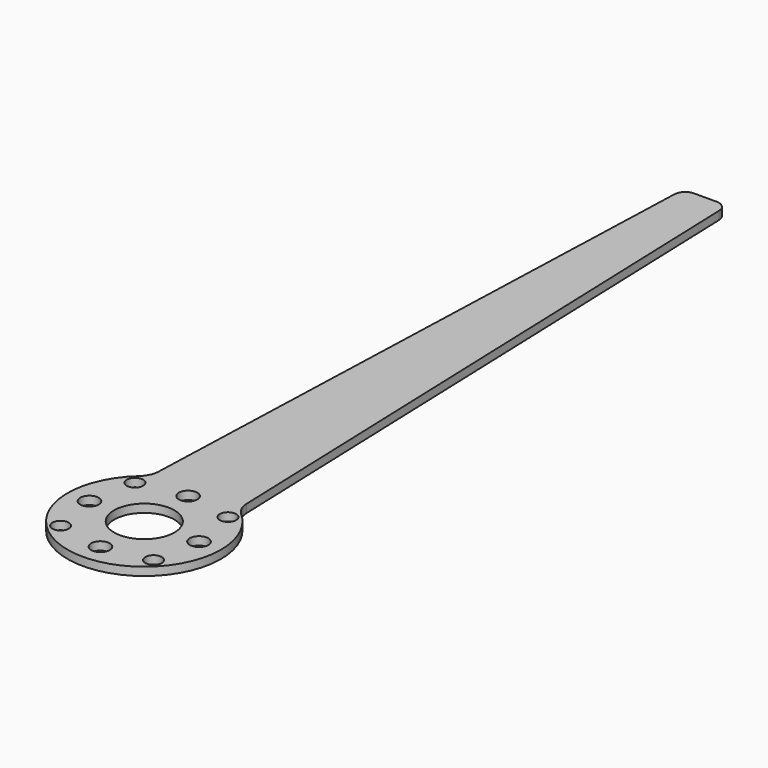
from build123d import *

# Parameters (mm, degrees)
F0_R     = 17.4625
F1_DEPTH = 4.7625
F2_D     = 10.71626
F3_R     = 6.35
F5_D     = 9.525


with BuildPart() as f1:
    # F0 (on Top) → F1 (new body)
    with BuildSketch(Plane.XY):
        with BuildLine():
            ThreePointArc((-25.4, 42.161447), (-26.591422, 37.216961), (-29.627334, 33.136438))
            ThreePointArc((-29.627334, 33.136438), (0, -44.45), (29.627334, 33.136438))
            ThreePointArc((29.627334, 33.136438), (26.591422, 37.216961), (25.4, 42.161447))
            Line((25.4, 42.161447), (12.7, 406.4))
            Line((12.7, 406.4), (-12.7, 406.4))
            Line((-12.7, 406.4), (-25.4, 42.161447))
        make_face()
        Circle(F0_R, mode=Mode.SUBTRACT)
    extrude(amount=-F1_DEPTH)

    # F2 (through all)
    with Locations(Plane.XY):
        with Locations((0, 31.75), (31.75, 0), (0, -31.75), (-31.75, 0)):
            Hole(F2_D / 2)

    # F3
    f3_edges = [f1.edges().sort_by_distance(p)[0] for p in [
        (-12.7, 406.4, -2.38125),
        (12.7, 406.4, -2.38125),
    ]]
    fillet(f3_edges, radius=F3_R)

    # F5 (through all)
    with Locations(Plane.XY):
        with Locations((-26.940768, 26.940768), (26.940768, 26.940768), (26.940768, -26.940768), (-26.940768, -26.940768)):
            Hole(F5_D / 2)


solid = f1.part
